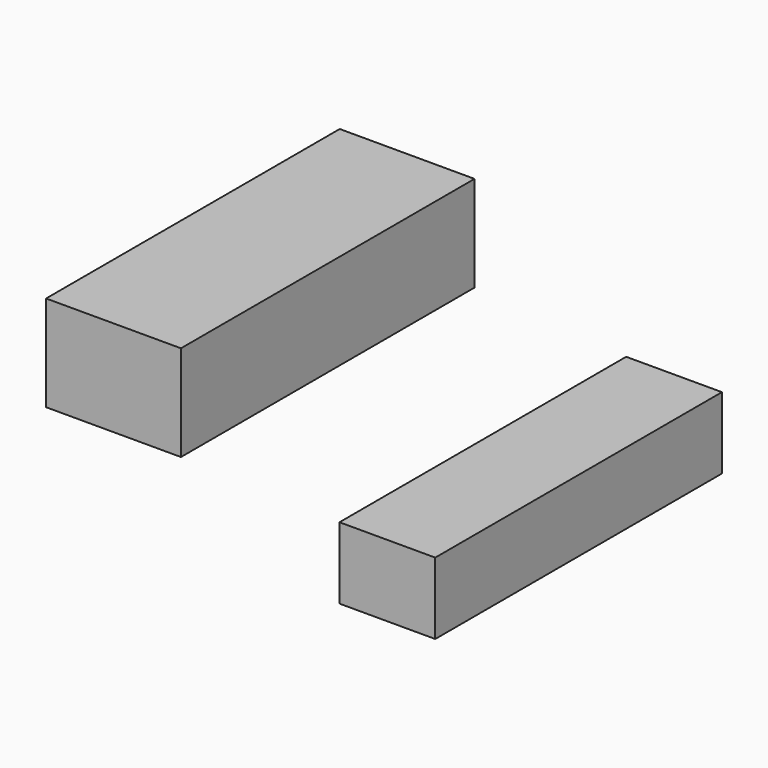
from build123d import *

# Parameters (mm, degrees)
F1_W     = 95.060795
F1_H     = 19.01216
F2_DEPTH = 25.4
F3_DEPTH = 25.4


with BuildPart() as f2:
    # F1 (on Right) → F2 (new body)
    with BuildSketch(Plane.YZ):
        with Locations((7.019873, -12.411984)):
            Rectangle(F1_W, F1_H)
    extrude(amount=F2_DEPTH)


with BuildPart() as f3:
    # F0 (on Top) → F3 (new body)
    with BuildSketch(Plane.XY):
        Polygon((-40.423807, 54.788392), (-76.203369, 54.815084), (-76.203369, -42.55224), (-40.423807, -42.55224), align=None)
    extrude(amount=F3_DEPTH)


solid = Compound([f2.part, f3.part])
